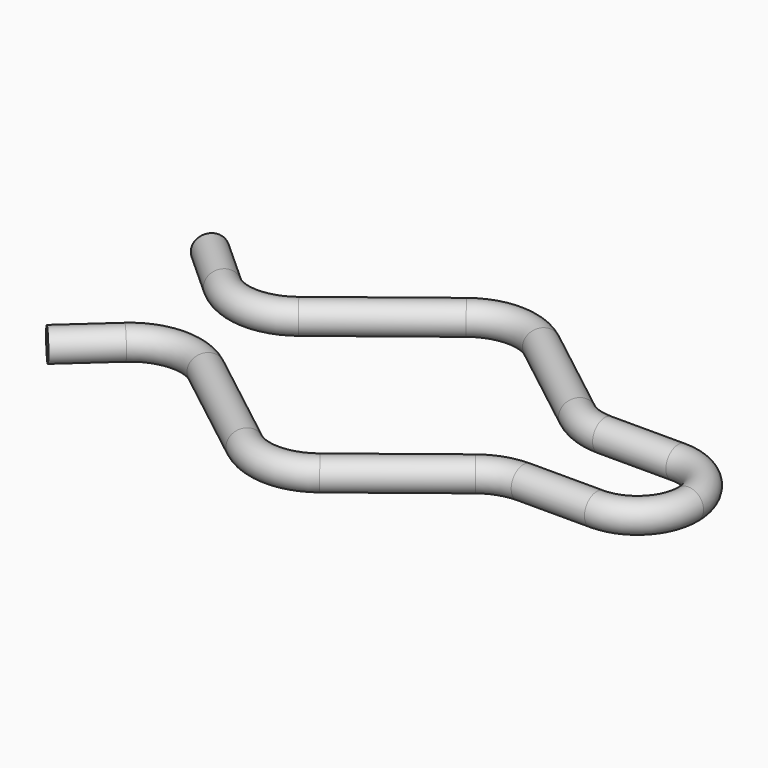
from build123d import *

# Parameters (mm, degrees)
SKETCH001_R = 0.75


with BuildPart() as part:
    # AdditivePipe: sweep along a path in Sketch
    with BuildLine(Plane.XY) as additivepipe_path:
        Line((-13, 5), (-10.7734145441, 2.9894485314))
        ThreePointArc((-10.7734145441, 2.9894485314), (-8.8718133128, 2.2180129991), (-6.9192330545, 2.8493848064))
        Line((-6.9192330545, 2.8493848064), (-1.843630021, 6.8033016788))
        ThreePointArc((-1.843630021, 6.8033016788), (0, 7.4366524978), (1.843630021, 6.8033016788))
        Line((1.843630021, 6.8033016788), (6.5547087607, 3.1333508191))
        ThreePointArc((6.5547087607, 3.1333508191), (7.4236458924, 2.6627524304), (8.3983387818, 2.5))
        Line((8.3983387818, 2.5), (12, 2.5))
        ThreePointArc((12, 2.5), (13.767766953, 1.767766953), (14.5, 0))
    # Sketch001 (on DatumPlane) → AdditivePipe (sweep)
    with BuildSketch(Plane(origin=(-13, 5, 0), x_dir=(-0.6701838229, -0.742195152, 0), z_dir=(-0.742195152, 0.6701838229, 0))):
        Circle(SKETCH001_R)
    additivepipe = sweep(path=additivepipe_path.line)

    # Mirrored: AdditivePipe across XZ
    add(additivepipe.mirror(Plane.XZ))


solid = part.part
